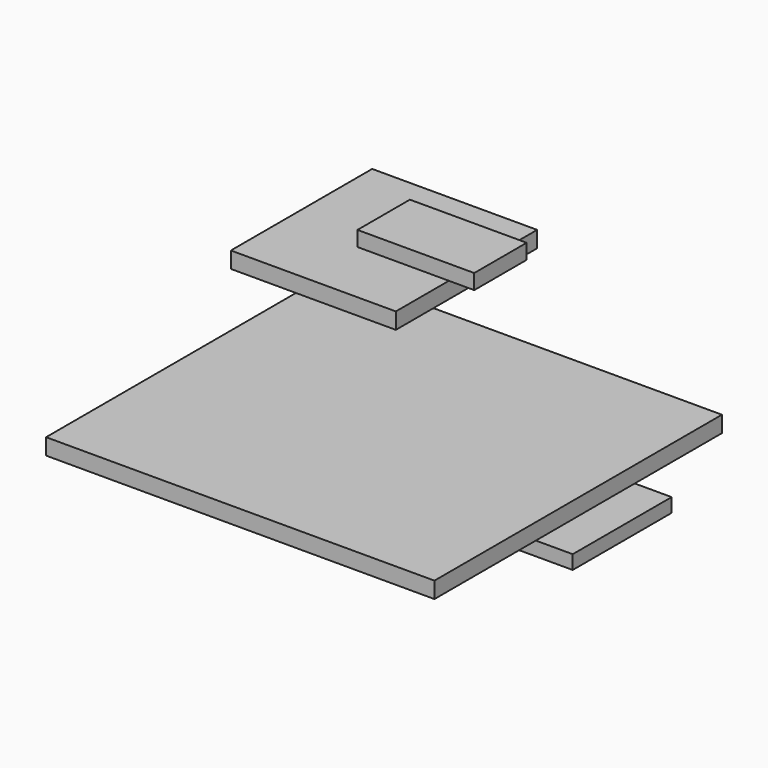
from build123d import *

# Parameters (mm, degrees)
F2_W     = 36.126006
F2_H     = 38.680818
F3_DEPTH = 3.556
F0_W     = 85.04486
F0_H     = 78.692556
F4_DEPTH = 3.556
F5_W     = 20.018459
F5_H     = 14.347644
F5_W_2   = 5.548455
F6_DEPTH = 3.302
F7_W     = 8.077156
F7_H     = 27.079672
F7_W_2   = 49.43719
F8_DEPTH = 3.048


with BuildPart() as f3:
    # F2 (on offset) → F3 (new body)
    with BuildSketch(Plane.XY.offset(32.258)):
        Rectangle(F2_W, F2_H)
    extrude(amount=F3_DEPTH)

    # F5 (on face) → F6 (join)
    with BuildSketch(Plane.XY.offset(35.814)):
        with Locations((8.053773, 2.35779)):
            Rectangle(F5_W, F5_H)
        with Locations((20.83723, 2.35779)):
            Rectangle(F5_W_2, F5_H)
    extrude(amount=F6_DEPTH)


with BuildPart() as f4:
    # F0 (on Top) → F4 (new body)
    with BuildSketch(Plane.XY):
        Rectangle(F0_W, F0_H)
    extrude(amount=-F4_DEPTH)

    # F7 (on face) → F8 (join)
    with BuildSketch(Plane(origin=(0, 0, -3.556), x_dir=(1, 0, 0), z_dir=(0, 0, -1))):
        with Locations((46.561008, -1.946157)):
            Rectangle(F7_W, F7_H)
        with Locations((17.803835, -1.946157)):
            Rectangle(F7_W_2, F7_H)
    extrude(amount=F8_DEPTH)


solid = Compound([f3.part, f4.part])
